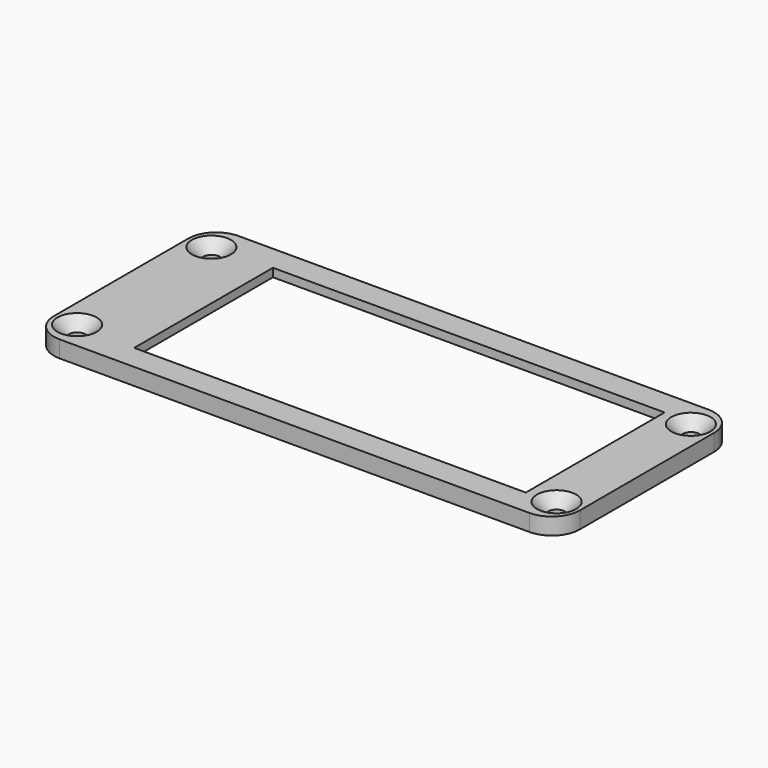
from build123d import *

# Parameters (mm, degrees)
SKETCH001_W   = 94
SKETCH001_H   = 40
SKETCH001_R   = 1.5
SKETCH001_W_2 = 70
SKETCH001_H_2 = 31
PAD001_DEPTH  = 3
SKETCH002_W   = 79.5
SKETCH002_H   = 37.5
POCKET_DEPTH  = 1.5
FILLET_R      = 5
CHAMFER_SIZE  = 2


with BuildPart() as part:
    # Sketch001 → Pad001 (new body)
    with BuildSketch(Plane.XY):
        Rectangle(SKETCH001_W, SKETCH001_H)
        with Locations((-42.85, 15)):
            Circle(SKETCH001_R, mode=Mode.SUBTRACT)
        with Locations((-42.85, -15)):
            Circle(SKETCH001_R, mode=Mode.SUBTRACT)
        with Locations((42.85, 15)):
            Circle(SKETCH001_R, mode=Mode.SUBTRACT)
        with Locations((42.85, -15)):
            Circle(SKETCH001_R, mode=Mode.SUBTRACT)
        with Locations((2.75, 0)):
            Rectangle(SKETCH001_W_2, SKETCH001_H_2, mode=Mode.SUBTRACT)
    extrude(amount=PAD001_DEPTH)

    # Sketch002 (on Face13 of Pad001) → Pocket (cut)
    with BuildSketch(Plane(origin=(0, 0, 0), x_dir=(1, 0, 0), z_dir=(0, 0, -1))):
        Rectangle(SKETCH002_W, SKETCH002_H)
    extrude(amount=-POCKET_DEPTH, mode=Mode.SUBTRACT)

    # Fillet
    fillet_edges = [part.edges().sort_by_distance(p)[0] for p in [
        (-47, -20, 1.5),
        (-47, 20, 1.5),
        (47, -20, 1.5),
        (47, 20, 1.5),
    ]]
    fillet(fillet_edges, radius=FILLET_R)

    # Chamfer
    chamfer_edges = [part.edges().sort_by_distance(p)[0] for p in [
        (41.35, -15, 3),
        (41.35, 15, 3),
        (-44.35, -15, 3),
        (-44.35, 15, 3),
    ]]
    chamfer(chamfer_edges, length=CHAMFER_SIZE)


with BuildPart() as part_1:
    # Body001 placement: moved
    add(part.part.moved(Location((77, -1, 19))))


solid = part_1.part
